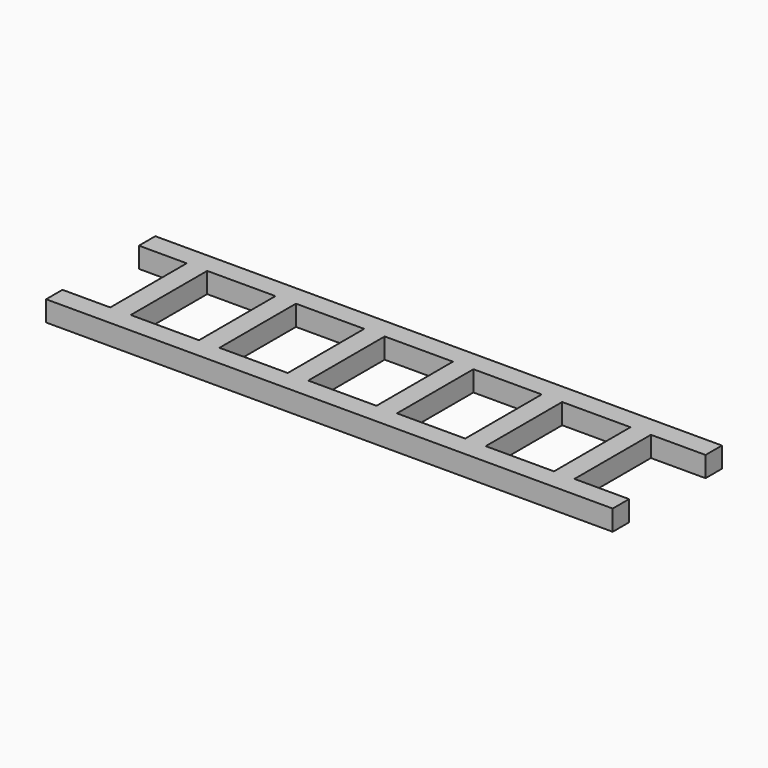
from build123d import *

# Parameters (mm, degrees)
F0_W     = 10
F0_H     = 14
F1_DEPTH = 3


with BuildPart() as f1:
    # F0 (on Top) → F1 (new body)
    with BuildSketch(Plane.XY):
        Polygon((-3, 0), (0, 0), (80, 0), (80, 3), (72, 3), (72, 17), (80, 17), (80, 20), (0, 20), (-3, 20), (-3, 17), (0, 17), (4, 17), (4, 3), (0, 3), (-3, 3), align=None)
        with Locations((12, 10)):
            Rectangle(F0_W, F0_H, mode=Mode.SUBTRACT)
        with Locations((25, 10)):
            Rectangle(F0_W, F0_H, mode=Mode.SUBTRACT)
        with Locations((38, 10)):
            Rectangle(F0_W, F0_H, mode=Mode.SUBTRACT)
        with Locations((51, 10)):
            Rectangle(F0_W, F0_H, mode=Mode.SUBTRACT)
        with Locations((64, 10)):
            Rectangle(F0_W, F0_H, mode=Mode.SUBTRACT)
    extrude(amount=F1_DEPTH)


solid = f1.part
